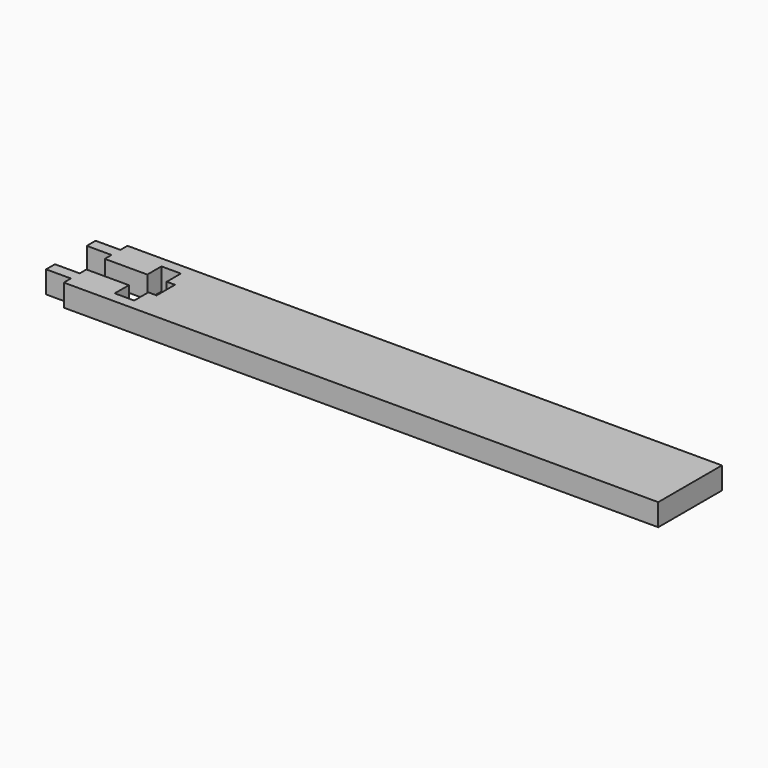
from build123d import *

# Parameters (mm, degrees)
F0_W     = 3.556
F0_H     = 1.5875
F1_DEPTH = 3.175


with BuildPart() as f1:
    # F0 (on Top) → F1 (new body)
    with BuildSketch(Plane.XY):
        with Locations((-43.68662, 21.858571)):
            Rectangle(F0_W, F0_H)
        with Locations((-43.68662, 14.556071)):
            Rectangle(F0_W, F0_H)
        Polygon((43.43538, 23.922321), (-41.90862, 23.922321), (-41.90862, 22.652321), (-41.90862, 21.064821), (-41.90862, 19.858321), (-35.81262, 19.858321), (-35.81262, 22.398321), (-33.01862, 22.398321), (-33.01862, 19.858321), (-31.836697, 19.858321), (-31.836697, 18.207321), (-31.836697, 16.556321), (-33.01862, 16.556321), (-33.01862, 14.016321), (-35.81262, 14.016321), (-35.81262, 16.556321), (-41.90862, 16.556321), (-41.90862, 15.349821), (-41.90862, 13.762321), (-41.90862, 12.492321), (43.43538, 12.492321), align=None)
    extrude(amount=F1_DEPTH)


solid = f1.part
